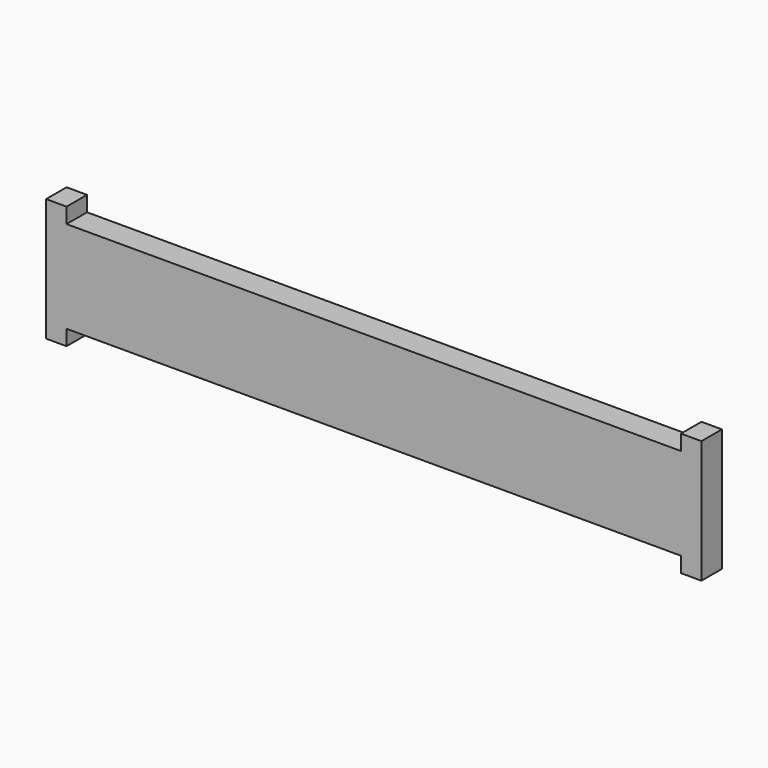
from build123d import *

# Parameters (mm, degrees)
F0_W     = 30
F0_H     = 4.5
F1_DEPTH = 1.25
F3_DEPTH = 1.25


with BuildPart() as f1:
    # F0 (on Front) → F1 (new body)
    with BuildSketch(Plane.XZ):
        with Locations((15, 2.25)):
            Rectangle(F0_W, F0_H)
    extrude(amount=F1_DEPTH)

    # F2 (on face) → F3 (join)
    with BuildSketch(Plane.XZ.offset(1.25)):
        Polygon((0, 0), (0, 4.5), (0, 5.25), (-1, 5.25), (-1, -0.75), (0, -0.75), align=None)
        Polygon((30, 5.25), (30, 4.5), (30, 0), (30, -0.75), (31, -0.75), (31, 5.25), align=None)
    extrude(amount=-F3_DEPTH)


solid = f1.part
